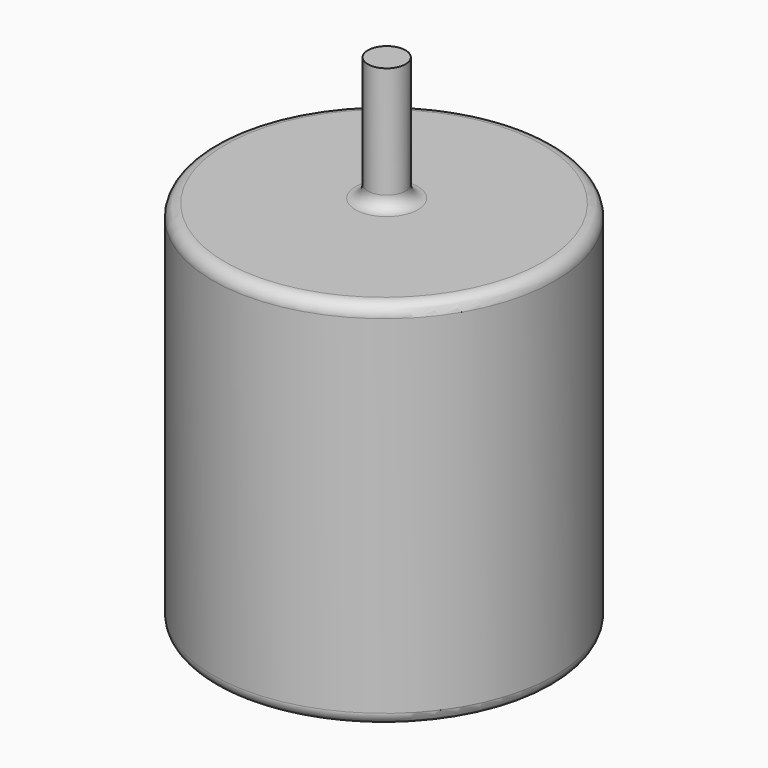
from build123d import *

# Parameters (mm, degrees)
F0_R     = 17.526
F1_DEPTH = 38.1
F2_R     = 1.9304
F3_DEPTH = 50.8
F4_R     = 1.27


with BuildPart() as f1:
    # F0 (on Top) → F1 (new body)
    with BuildSketch(Plane.XY):
        with Locations((-59.5418959856, 23.2741720974)):
            Circle(F0_R)
    extrude(amount=F1_DEPTH)

    # F2 (on Top) → F3 (join)
    with BuildSketch(Plane.XY):
        with Locations((-59.9432475865, 24.1154804826)):
            Circle(F2_R)
    extrude(amount=F3_DEPTH)

    # F4
    f4_edges = [f1.edges().sort_by_distance(p)[0] for p in [
        (-77.067896, 23.274172, 38.1),
        (-61.873648, 24.11548, 38.1),
        (-77.067896, 23.274172, 0),
    ]]
    fillet(f4_edges, radius=F4_R)


solid = f1.part
